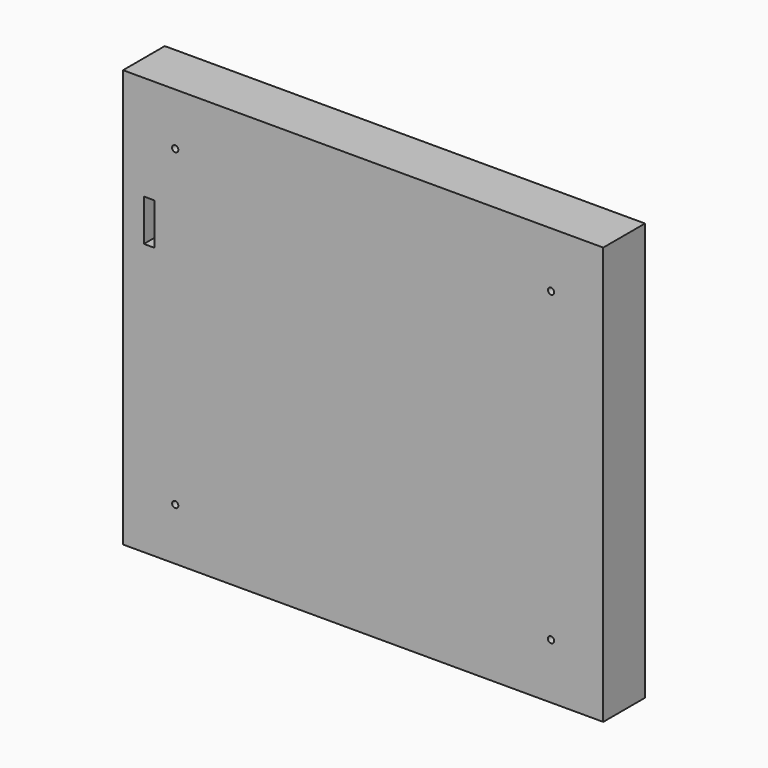
from build123d import *

# Parameters (mm, degrees)
F0_W     = 230
F0_H     = 200
F1_DEPTH = 25
F2_W     = 5
F2_H     = 20
F2_R     = 1.5
F3_DEPTH = 25
F4_DEPTH = 25


with BuildPart() as f1:
    # F0 (on Front) → F1 (new body)
    with BuildSketch(Plane.XZ):
        with Locations((-169.041439, -113.966247)):
            Rectangle(F0_W, F0_H)
    extrude(amount=F1_DEPTH)

    # F2 (on face) → F3 (cut)
    with BuildSketch(Plane.XZ.offset(25)):
        with Locations((-271.541439, -73.966247)):
            Rectangle(F2_W, F2_H)
        with Locations((-79.041439, -40.466247)):
            Circle(F2_R)
        with Locations((-79.041439, -187.466247)):
            Circle(F2_R)
        with Locations((-259.041439, -38.966247)):
            Circle(F2_R)
        with Locations((-259.041439, -188.966247)):
            Circle(F2_R)
    extrude(amount=-F3_DEPTH, mode=Mode.SUBTRACT)

    # F2 (on face) → F4 (cut)
    with BuildSketch(Plane.XZ.offset(25)):
        with Locations((-271.541439, -73.966247)):
            Rectangle(F2_W, F2_H)
        with Locations((-79.041439, -40.466247)):
            Circle(F2_R)
        with Locations((-79.041439, -187.466247)):
            Circle(F2_R)
        with Locations((-259.041439, -38.966247)):
            Circle(F2_R)
        with Locations((-259.041439, -188.966247)):
            Circle(F2_R)
    extrude(amount=-F4_DEPTH, mode=Mode.SUBTRACT)


solid = f1.part
